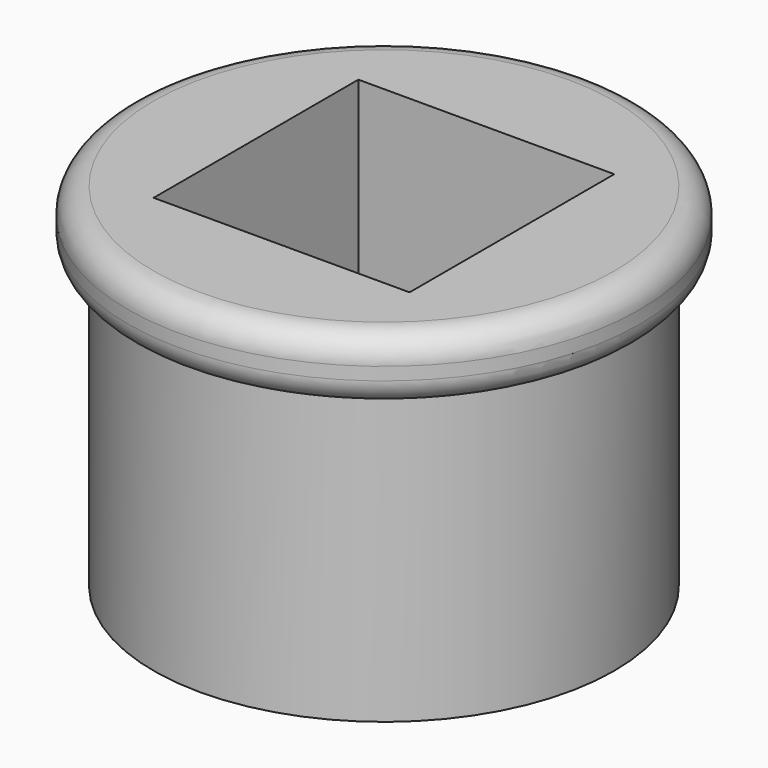
from build123d import *

# Parameters (mm, degrees)
F0_R     = 50.8
F0_W     = 50.8
F0_H     = 50.8
F1_DEPTH = 12.7
F2_R     = 5.08
F3_DEPTH = 57.15


with BuildPart() as f1:
    # F0 (on Top) → F1 (new body)
    with BuildSketch(Plane.XY):
        Circle(F0_R)
        Rectangle(F0_W, F0_H, mode=Mode.SUBTRACT)
    extrude(amount=F1_DEPTH)

    # F2
    f2_edges = [f1.edges().sort_by_distance(p)[0] for p in [
        (50.8, 0, 6.35),
        (-50.8, 0, 0),
        (-50.8, 0, 12.7),
    ]]
    fillet(f2_edges, radius=F2_R)

    # F3 (add): a face of the model
    f3_faces = [f1.faces().sort_by_distance(p)[0] for p in [
        (-44.4268431186, 0, 0),
    ]]
    extrude(f3_faces, amount=F3_DEPTH)


solid = f1.part
